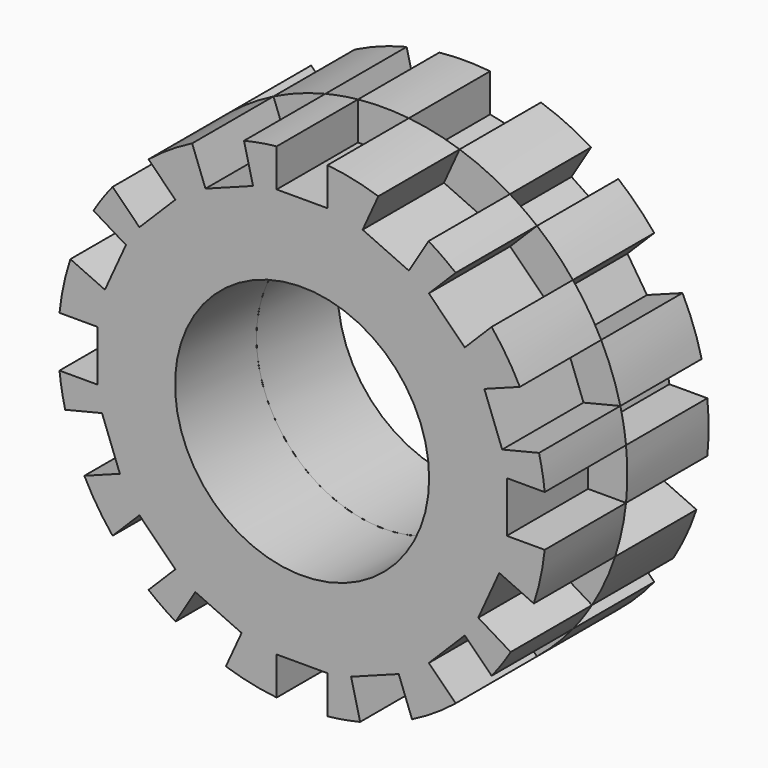
from build123d import *

# Parameters (mm, degrees)
F0_R     = 3.75
F1_DEPTH = 3
F2_R     = 3.75
F3_DEPTH = 3


with BuildPart() as f1:
    # F0 (on Front) → F1 (new body)
    with BuildSketch(Plane.XZ):
        with BuildLine():
            Line((-0.75, 6.040831), (-0.75, 7.160831))
            ThreePointArc((-0.75, 7.160831), (-1.234895, 7.093309), (-1.71408, 6.992992))
            Line((-1.71408, 6.992992), (-1.447445, 5.905193))
            Line((-1.447445, 5.905193), (-2.851935, 5.378496))
            Line((-2.851935, 5.378496), (-3.245201, 6.427182))
            ThreePointArc((-3.245201, 6.427182), (-3.91143, 6.044891), (-4.533142, 5.593802))
            Line((-4.533142, 5.593802), (-3.741182, 4.801843))
            Line((-3.741182, 4.801843), (-4.801843, 3.741182))
            Line((-4.801843, 3.741182), (-5.593802, 4.533142))
            ThreePointArc((-5.593802, 4.533142), (-5.888929, 4.142525), (-6.156829, 3.732754))
            Line((-6.156829, 3.732754), (-5.1991, 3.152104))
            Line((-5.1991, 3.152104), (-5.819794, 1.786549))
            Line((-5.819794, 1.786549), (-6.839408, 2.25))
            ThreePointArc((-6.839408, 2.25), (-7.040183, 1.508585), (-7.160831, 0.75))
            Line((-7.160831, 0.75), (-6.040831, 0.75))
            Line((-6.040831, 0.75), (-6.040831, -0.75))
            Line((-6.040831, -0.75), (-7.160831, -0.75))
            ThreePointArc((-7.160831, -0.75), (-7.093309, -1.234895), (-6.992992, -1.71408))
            Line((-6.992992, -1.71408), (-5.905193, -1.447445))
            Line((-5.905193, -1.447445), (-5.378496, -2.851935))
            Line((-5.378496, -2.851935), (-6.427182, -3.245201))
            ThreePointArc((-6.427182, -3.245201), (-6.044891, -3.91143), (-5.593802, -4.533142))
            Line((-5.593802, -4.533142), (-4.801843, -3.741182))
            Line((-4.801843, -3.741182), (-3.741182, -4.801843))
            Line((-3.741182, -4.801843), (-4.533142, -5.593802))
            ThreePointArc((-4.533142, -5.593802), (-4.142525, -5.888929), (-3.732754, -6.156829))
            Line((-3.732754, -6.156829), (-3.152104, -5.1991))
            Line((-3.152104, -5.1991), (-1.786549, -5.819794))
            Line((-1.786549, -5.819794), (-2.25, -6.839408))
            ThreePointArc((-2.25, -6.839408), (-1.508585, -7.040183), (-0.75, -7.160831))
            Line((-0.75, -7.160831), (-0.75, -6.040831))
            Line((-0.75, -6.040831), (0.75, -6.040831))
            Line((0.75, -6.040831), (0.75, -7.160831))
            ThreePointArc((0.75, -7.160831), (1.234895, -7.093309), (1.71408, -6.992992))
            Line((1.71408, -6.992992), (1.447445, -5.905193))
            Line((1.447445, -5.905193), (2.851935, -5.378496))
            Line((2.851935, -5.378496), (3.245201, -6.427182))
            ThreePointArc((3.245201, -6.427182), (3.91143, -6.044891), (4.533142, -5.593802))
            Line((4.533142, -5.593802), (3.741182, -4.801843))
            Line((3.741182, -4.801843), (4.801843, -3.741182))
            Line((4.801843, -3.741182), (5.593802, -4.533142))
            ThreePointArc((5.593802, -4.533142), (5.888929, -4.142525), (6.156829, -3.732754))
            Line((6.156829, -3.732754), (5.1991, -3.152104))
            Line((5.1991, -3.152104), (5.819794, -1.786549))
            Line((5.819794, -1.786549), (6.839408, -2.25))
            ThreePointArc((6.839408, -2.25), (7.040183, -1.508585), (7.160831, -0.75))
            Line((7.160831, -0.75), (6.040831, -0.75))
            Line((6.040831, -0.75), (6.040831, 0.75))
            Line((6.040831, 0.75), (7.160831, 0.75))
            ThreePointArc((7.160831, 0.75), (7.093309, 1.234895), (6.992992, 1.71408))
            Line((6.992992, 1.71408), (5.905193, 1.447445))
            Line((5.905193, 1.447445), (5.378496, 2.851935))
            Line((5.378496, 2.851935), (6.427182, 3.245201))
            ThreePointArc((6.427182, 3.245201), (6.044891, 3.91143), (5.593802, 4.533142))
            Line((5.593802, 4.533142), (4.801843, 3.741182))
            Line((4.801843, 3.741182), (3.741182, 4.801843))
            Line((3.741182, 4.801843), (4.533142, 5.593802))
            ThreePointArc((4.533142, 5.593802), (4.142525, 5.888929), (3.732754, 6.156829))
            Line((3.732754, 6.156829), (3.152104, 5.1991))
            Line((3.152104, 5.1991), (1.786549, 5.819794))
            Line((1.786549, 5.819794), (2.25, 6.839408))
            ThreePointArc((2.25, 6.839408), (1.508585, 7.040183), (0.75, 7.160831))
            Line((0.75, 7.160831), (0.75, 6.040831))
            Line((0.75, 6.040831), (-0.75, 6.040831))
        make_face()
        Circle(F0_R, mode=Mode.SUBTRACT)
    extrude(amount=F1_DEPTH)


with BuildPart() as f3:
    # F2 (on face) → F3 (new body)
    with BuildSketch(Plane(origin=(0, 0, 0), x_dir=(-1, 0, 0), z_dir=(0, 1, 0))):
        with BuildLine():
            Line((-1.786549, 5.819794), (-2.25, 6.839408))
            ThreePointArc((-2.25, 6.839408), (-3.010783, 6.540274), (-3.732754, 6.156829))
            Line((-3.732754, 6.156829), (-3.152104, 5.1991))
            Line((-3.152104, 5.1991), (-3.741182, 4.801843))
            Line((-3.741182, 4.801843), (-4.533142, 5.593802))
            ThreePointArc((-4.533142, 5.593802), (-5.091169, 5.091169), (-5.593802, 4.533142))
            Line((-5.593802, 4.533142), (-4.801843, 3.741182))
            Line((-4.801843, 3.741182), (-5.378496, 2.851935))
            Line((-5.378496, 2.851935), (-6.427182, 3.245201))
            ThreePointArc((-6.427182, 3.245201), (-6.753617, 2.495727), (-6.992992, 1.71408))
            Line((-6.992992, 1.71408), (-5.905193, 1.447445))
            Line((-5.905193, 1.447445), (-6.040831, 0.75))
            Line((-6.040831, 0.75), (-7.160831, 0.75))
            ThreePointArc((-7.160831, 0.75), (-7.2, 0), (-7.160831, -0.75))
            Line((-7.160831, -0.75), (-6.040831, -0.75))
            Line((-6.040831, -0.75), (-5.819794, -1.786549))
            Line((-5.819794, -1.786549), (-6.839408, -2.25))
            ThreePointArc((-6.839408, -2.25), (-6.540274, -3.010783), (-6.156829, -3.732754))
            Line((-6.156829, -3.732754), (-5.1991, -3.152104))
            Line((-5.1991, -3.152104), (-4.801843, -3.741182))
            Line((-4.801843, -3.741182), (-5.593802, -4.533142))
            ThreePointArc((-5.593802, -4.533142), (-5.091169, -5.091169), (-4.533142, -5.593802))
            Line((-4.533142, -5.593802), (-3.741182, -4.801843))
            Line((-3.741182, -4.801843), (-2.851935, -5.378496))
            Line((-2.851935, -5.378496), (-3.245201, -6.427182))
            ThreePointArc((-3.245201, -6.427182), (-2.495727, -6.753617), (-1.71408, -6.992992))
            Line((-1.71408, -6.992992), (-1.447445, -5.905193))
            Line((-1.447445, -5.905193), (-0.75, -6.040831))
            Line((-0.75, -6.040831), (-0.75, -7.160831))
            ThreePointArc((-0.75, -7.160831), (0, -7.2), (0.75, -7.160831))
            Line((0.75, -7.160831), (0.75, -6.040831))
            Line((0.75, -6.040831), (1.786549, -5.819794))
            Line((1.786549, -5.819794), (2.25, -6.839408))
            ThreePointArc((2.25, -6.839408), (3.010783, -6.540274), (3.732754, -6.156829))
            Line((3.732754, -6.156829), (3.152104, -5.1991))
            Line((3.152104, -5.1991), (3.741182, -4.801843))
            Line((3.741182, -4.801843), (4.533142, -5.593802))
            ThreePointArc((4.533142, -5.593802), (5.091169, -5.091169), (5.593802, -4.533142))
            Line((5.593802, -4.533142), (4.801843, -3.741182))
            Line((4.801843, -3.741182), (5.378496, -2.851935))
            Line((5.378496, -2.851935), (6.427182, -3.245201))
            ThreePointArc((6.427182, -3.245201), (6.753617, -2.495727), (6.992992, -1.71408))
            Line((6.992992, -1.71408), (5.905193, -1.447445))
            Line((5.905193, -1.447445), (6.040831, -0.75))
            Line((6.040831, -0.75), (7.160831, -0.75))
            ThreePointArc((7.160831, -0.75), (7.2, 0), (7.160831, 0.75))
            Line((7.160831, 0.75), (6.040831, 0.75))
            Line((6.040831, 0.75), (5.819794, 1.786549))
            Line((5.819794, 1.786549), (6.839408, 2.25))
            ThreePointArc((6.839408, 2.25), (6.540274, 3.010783), (6.156829, 3.732754))
            Line((6.156829, 3.732754), (5.1991, 3.152104))
            Line((5.1991, 3.152104), (4.801843, 3.741182))
            Line((4.801843, 3.741182), (5.593802, 4.533142))
            ThreePointArc((5.593802, 4.533142), (5.091169, 5.091169), (4.533142, 5.593802))
            Line((4.533142, 5.593802), (3.741182, 4.801843))
            Line((3.741182, 4.801843), (2.851935, 5.378496))
            Line((2.851935, 5.378496), (3.245201, 6.427182))
            ThreePointArc((3.245201, 6.427182), (2.495727, 6.753617), (1.71408, 6.992992))
            Line((1.71408, 6.992992), (1.447445, 5.905193))
            Line((1.447445, 5.905193), (0.75, 6.040831))
            Line((0.75, 6.040831), (0.75, 7.160831))
            ThreePointArc((0.75, 7.160831), (0, 7.2), (-0.75, 7.160831))
            Line((-0.75, 7.160831), (-0.75, 6.040831))
            Line((-0.75, 6.040831), (-1.786549, 5.819794))
        make_face()
        Circle(F2_R, mode=Mode.SUBTRACT)
    extrude(amount=F3_DEPTH)


solid = Compound([f1.part, f3.part])
